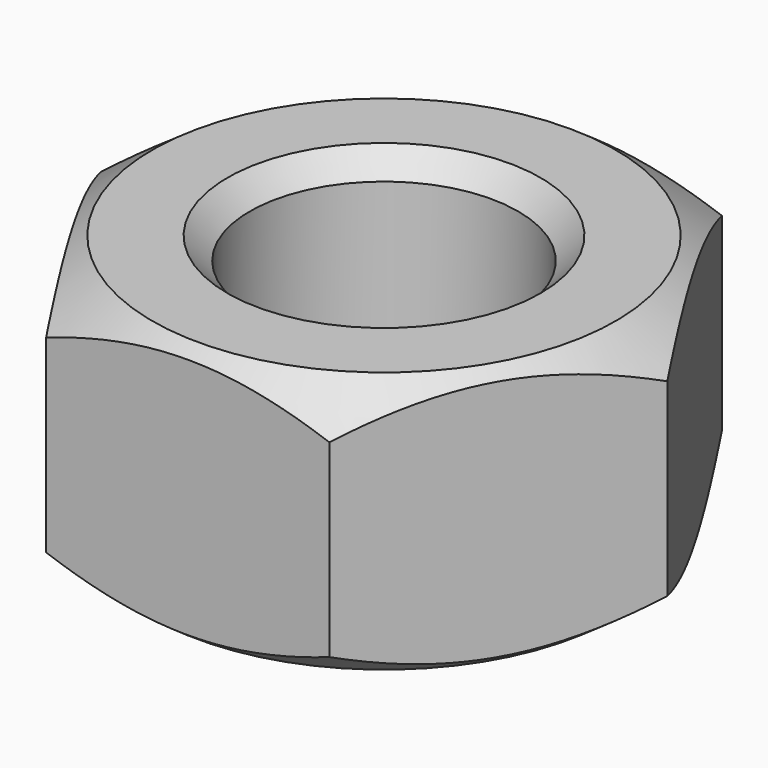
from build123d import *

# Parameters (mm, degrees)
F0_R     = 6
F1_DEPTH = 11.7
F4_SIZE  = 1


with BuildPart() as f1:
    # F0 (on Top) → F1 (new body)
    with BuildSketch(Plane.XY):
        Polygon((6.333883, 10.970607), (-6.333883, 10.970607), (-12.667766, 0), (-6.333883, -10.970607), (6.333883, -10.970607), (12.667766, 0), align=None)
        Circle(F0_R, mode=Mode.SUBTRACT)
    extrude(amount=F1_DEPTH)

    # F2 (on Right) → F3 (revolve, cut)
    with BuildSketch(Plane.YZ):
        Polygon((13.277913, 12.61499), (9.648551, 12.201084), (13.277913, 9.649714), align=None)
        Polygon((13.277913, 2.050286), (9.648551, -0.501084), (13.277913, -0.91499), align=None)
    revolve(axis=Axis((0, 0, 5.981519), (0, 0, -1)), mode=Mode.SUBTRACT)

    # F4
    f4_edges = [f1.edges().sort_by_distance(p)[0] for p in [
        (-6, 0, 11.7),
        (-6, 0, 0),
    ]]
    chamfer(f4_edges, length=F4_SIZE)


solid = f1.part
